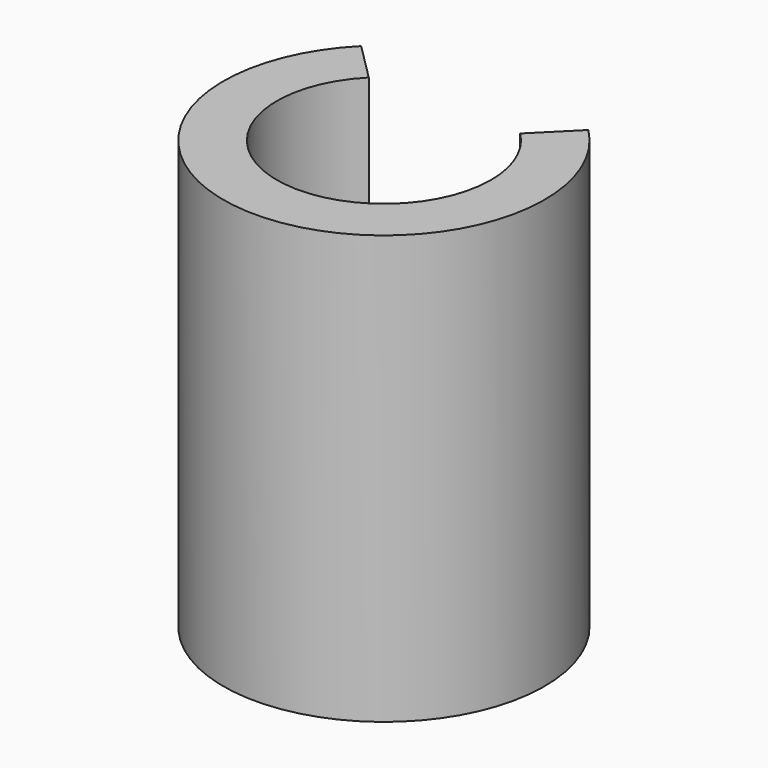
from build123d import *

# Parameters (mm, degrees)
F1_DEPTH = 50.8


with BuildPart() as f1:
    # F0 (on Top) → F1 (new body)
    with BuildSketch(Plane.XY):
        with BuildLine():
            ThreePointArc((8.980256, 8.980256), (11.73327, 4.86008), (12.7, 0))
            ThreePointArc((12.7, 0), (-4.86008, -11.73327), (-8.980256, 8.980256))
            Line((-8.980256, 8.980256), (-13.470384, 13.470384))
            ThreePointArc((-13.470384, 13.470384), (0, -19.05), (13.470384, 13.470384))
            Line((13.470384, 13.470384), (8.980256, 8.980256))
        make_face()
    extrude(amount=F1_DEPTH)


solid = f1.part
